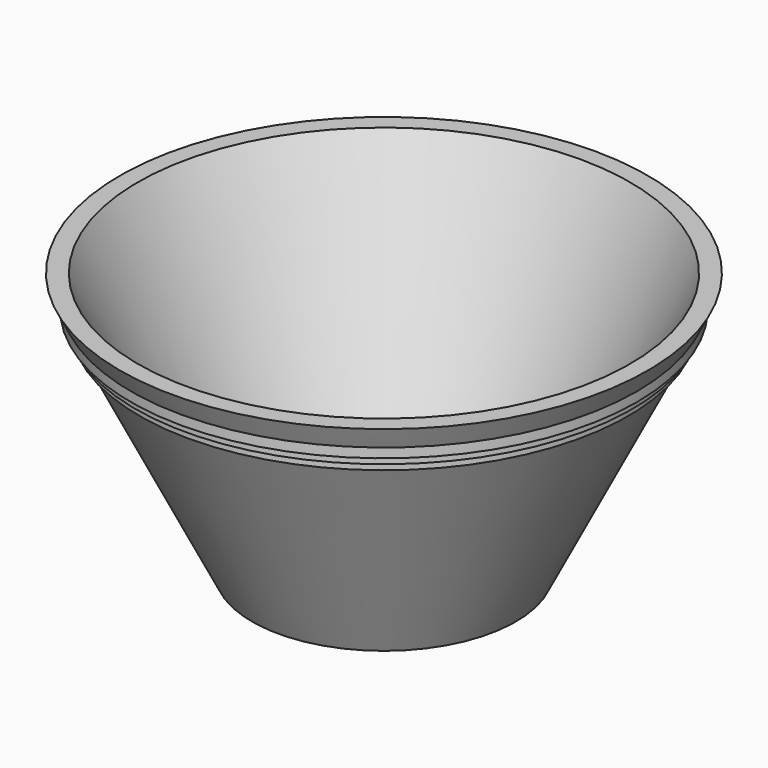
from build123d import *


with BuildPart() as f1:
    # F0 (on Right) → F1 (revolve)
    with BuildSketch(Plane.YZ):
        Polygon((0, 3.0734), (0, 0), (25.4, 0), (46.337384, 41.874768), (47.039628, 43.279255), (47.778658, 44.757316), (48.688656, 46.577311), (50.8, 50.8), (47.363834, 50.8), (23.500534, 3.0734), align=None)
        Polygon((47.039628, 43.279255), (46.337384, 41.874768), (47.039628, 41.874768), align=None)
        Polygon((47.778658, 44.757316), (47.039628, 43.279255), (47.778658, 43.279255), align=None)
        Polygon((48.688656, 46.577311), (47.778658, 44.757316), (48.688656, 44.757316), align=None)
    revolve(axis=Axis((0, 0, 25.4), (0, 0, 1)))


solid = f1.part
